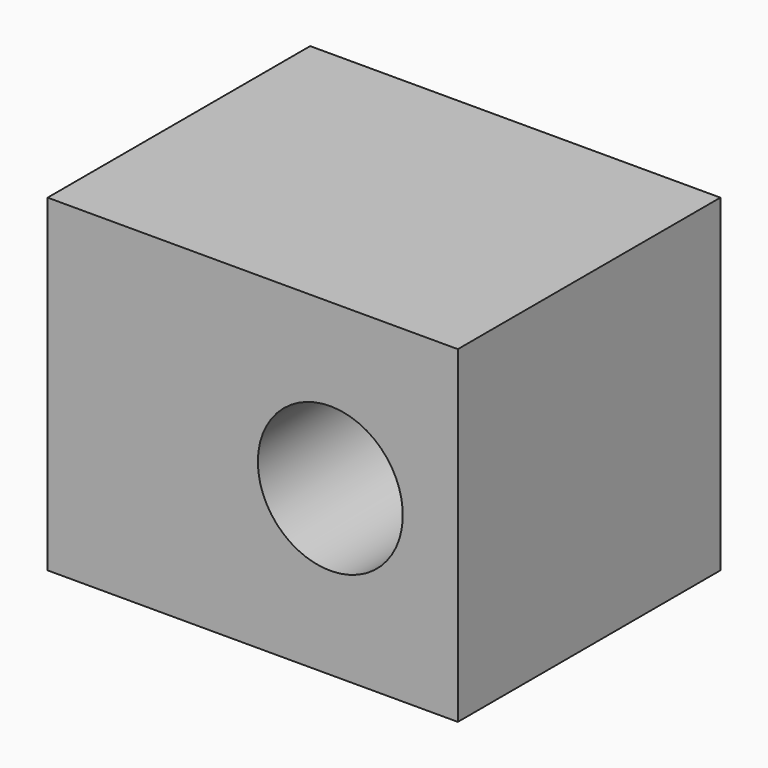
from build123d import *

# Parameters (mm, degrees)
F0_W     = 12
F0_H     = 12
F1_DEPTH = 15
F2_R     = 3.5
F3_DEPTH = 4
F4_R     = 2.65
F5_DEPTH = 20


with BuildPart() as f1:
    # F0 (on Right) → F1 (new body)
    with BuildSketch(Plane.YZ):
        Rectangle(F0_W, F0_H)
    extrude(amount=F1_DEPTH)

    # F2 (on face) → F3 (cut)
    with BuildSketch(Plane(origin=(0, 6, 0), x_dir=(-1, 0, 0), z_dir=(0, 1, 0))):
        with Locations((-10.337353, 0)):
            Circle(F2_R)
    extrude(amount=-F3_DEPTH, mode=Mode.SUBTRACT)

    # F4 (on face) → F5 (cut)
    with BuildSketch(Plane(origin=(0, 2, 0), x_dir=(-1, 0, 0), z_dir=(0, 1, 0))):
        with Locations((-10.337353, 0)):
            Circle(F4_R)
    extrude(amount=-F5_DEPTH, mode=Mode.SUBTRACT)


solid = f1.part
